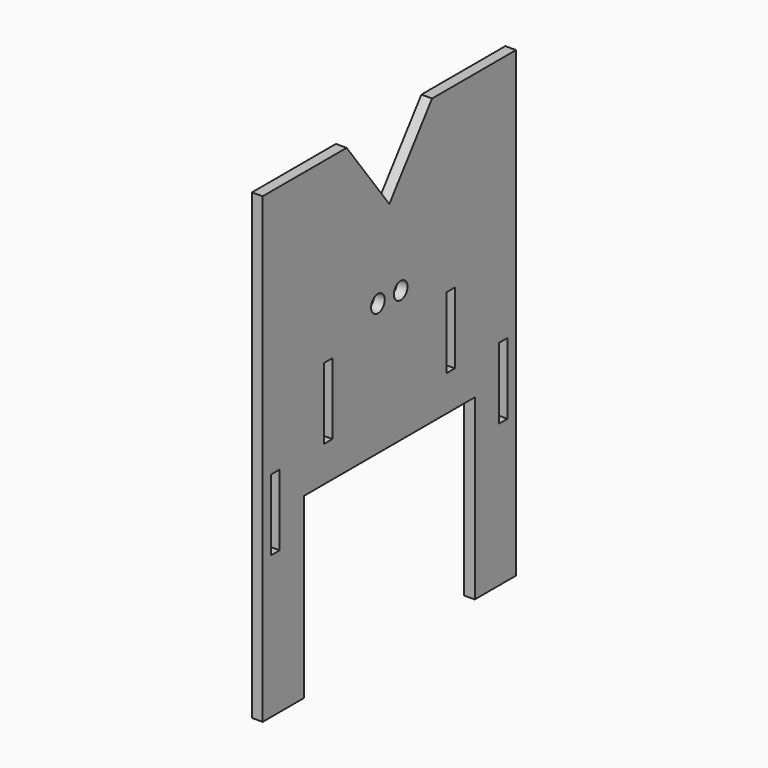
from build123d import *

# Parameters (mm, degrees)
F1_DEPTH = 3
F2_W     = 3
F2_H     = 20
F2_R     = 2.4
F2_W_2   = 60
F2_H_2   = 50
F3_DEPTH = 25


with BuildPart() as f1:
    # F0 (on Right) → F1 (new body)
    with BuildSketch(Plane.YZ):
        Polygon((29.5, 130), (0, 130), (0, 0), (89, 0), (89, 130), (59.5, 130), (44.5, 110), align=None)
    extrude(amount=F1_DEPTH)

    # F2 (on face) → F3 (cut)
    with BuildSketch(Plane.YZ.offset(3)):
        with Locations((4.5, 50)):
            Rectangle(F2_W, F2_H)
        with Locations((84.5, 50)):
            Rectangle(F2_W, F2_H)
        with Locations((40.5, 87)):
            Circle(F2_R)
        with Locations((48.5, 87)):
            Circle(F2_R)
        with Locations((23, 70)):
            Rectangle(F2_W, F2_H)
        with Locations((66, 70)):
            Rectangle(F2_W, F2_H)
        with Locations((44.5, 25)):
            Rectangle(F2_W_2, F2_H_2)
    extrude(amount=-F3_DEPTH, mode=Mode.SUBTRACT)


solid = f1.part
